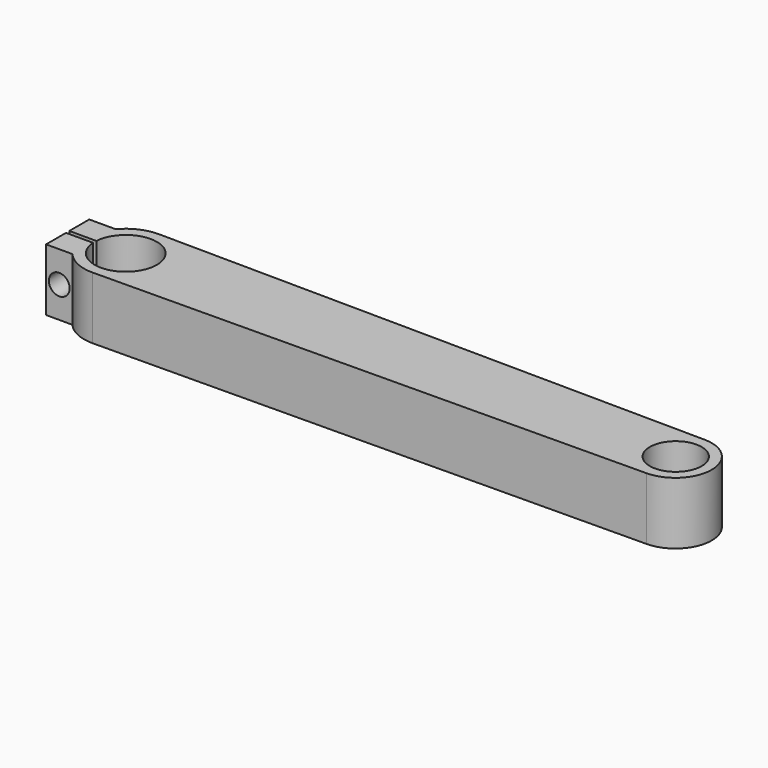
from build123d import *

# Parameters (mm, degrees)
F0_R     = 7.9375
F1_DEPTH = 9.525
F3_D     = 6.35


with BuildPart() as f1:
    # F0 (on Top) → F1 (new body, symmetric)
    with BuildSketch(Plane.XY):
        with BuildLine():
            ThreePointArc((-9.50381, 0.635), (0.317677, 9.519701), (9.525, 0))
            ThreePointArc((9.525, 0), (0.317677, -9.519701), (-9.50381, -0.635))
            Line((-9.50381, -0.635), (-12.7, -0.635))
            Line((-12.7, -0.635), (-17.78, -0.635))
            Line((-17.78, -0.635), (-17.78, -8.255))
            Line((-17.78, -8.255), (-9.720665, -8.255))
            ThreePointArc((-9.720665, -8.255), (-5.355366, -11.560078), (0, -12.7))
            Line((0, -12.7), (168.275, -11.1125))
            ThreePointArc((168.275, -11.1125), (179.28316, 0), (168.275, 11.1125))
            Line((168.275, 11.1125), (0, 12.7))
            ThreePointArc((0, 12.7), (-5.355366, 11.560078), (-9.720665, 8.255))
            Line((-9.720665, 8.255), (-17.78, 8.255))
            Line((-17.78, 8.255), (-17.78, 0.635))
            Line((-17.78, 0.635), (-12.7, 0.635))
            Line((-12.7, 0.635), (-9.50381, 0.635))
        make_face()
        with Locations((168.275, 0)):
            Circle(F0_R, mode=Mode.SUBTRACT)
    extrude(amount=F1_DEPTH, both=True)

    # F3 (through all)
    with Locations(Plane(origin=(0, 8.255, 0), x_dir=(-1, 0, 0), z_dir=(0, 1, 0))):
        with Locations((13.750333, 0)):
            Hole(F3_D / 2)


solid = f1.part
